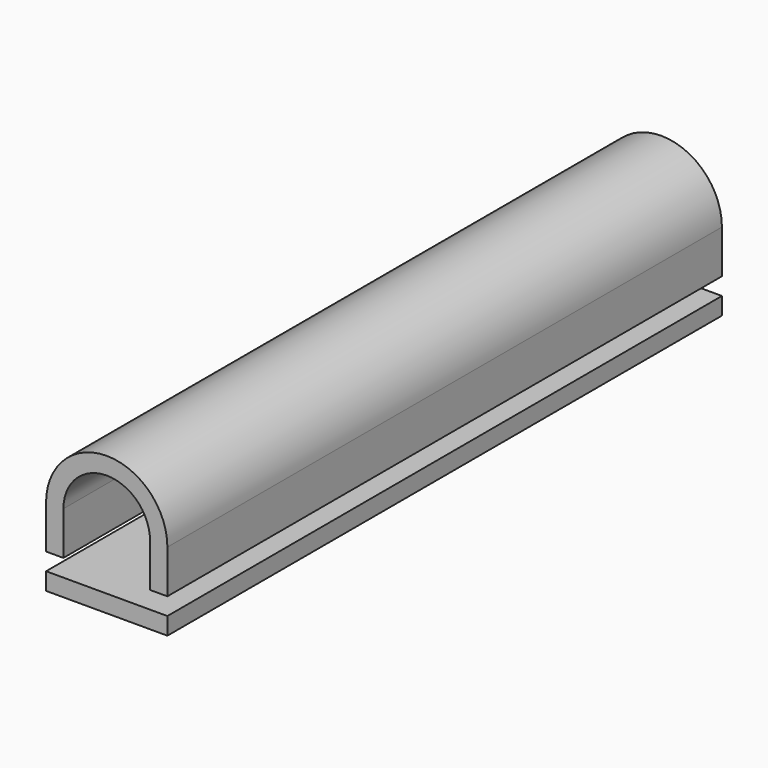
from build123d import *

# Parameters (mm, degrees)
F4_DEPTH = 40


with BuildPart() as f4:
    # F3 (on Front) → F4 (new body)
    with BuildSketch(Plane.XZ):
        with BuildLine():
            Line((2.5, 2.5), (2.5, 0))
            Line((2.5, 0), (3.5, 0))
            Line((3.5, 0), (3.5, 2.5))
            ThreePointArc((3.5, 2.5), (0, 6), (-3.5, 2.5))
            Line((-3.5, 2.5), (-3.5, 0))
            Line((-3.5, 0), (-2.5, 0))
            Line((-2.5, 0), (-2.5, 2.5))
            ThreePointArc((-2.5, 2.5), (0, 5), (2.5, 2.5))
        make_face()
    extrude(amount=F4_DEPTH)


with BuildPart() as f4b:
    # F3 (on Front) → F4, piece 2 (new body)
    with BuildSketch(Plane.XZ):
        Polygon((3.5, -1), (0, -1), (-3.5, -1), (-3.5, -2), (3.5, -2), align=None)
    extrude(amount=F4_DEPTH)


solid = Compound([f4.part, f4b.part])
